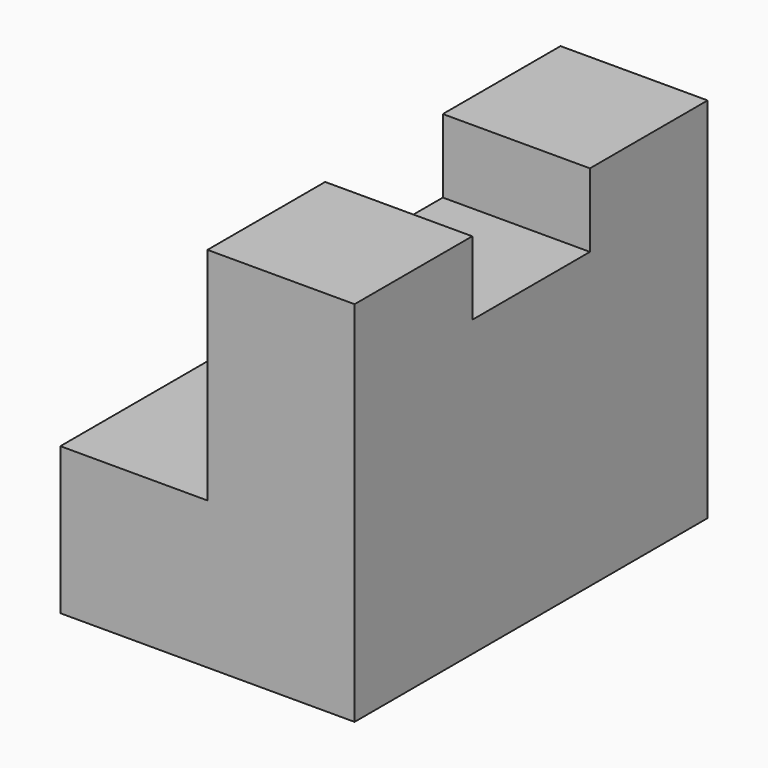
from build123d import *

# Parameters (mm, degrees)
F1_DEPTH = 25.4
F3_DEPTH = 12.7
F2_W     = 12.7
F2_H     = 6.35
F4_DEPTH = 12.701


with BuildPart() as f1:
    # F0 (on Front) → F1 (new body)
    with BuildSketch(Plane.XZ):
        Polygon((-25.4, 0), (0, 0), (0, 31.75), (-12.7, 31.75), (-12.7, 12.7), (-25.4, 12.7), align=None)
    extrude(amount=F1_DEPTH)

    # F3 (add): a face of the model
    f3_faces = [f1.faces().sort_by_distance(p)[0] for p in [
        (-9.9785714286, -25.4, 13.1535714286),
    ]]
    extrude(f3_faces, amount=F3_DEPTH)

    # F2 (on face) → F4 (cut, through all)
    with BuildSketch(Plane(origin=(-12.7, 0, 0), x_dir=(0, -1, 0), z_dir=(-1, 0, 0))):
        with Locations((19.05, 28.575)):
            Rectangle(F2_W, F2_H)
    extrude(amount=-F4_DEPTH, mode=Mode.SUBTRACT)


solid = f1.part
